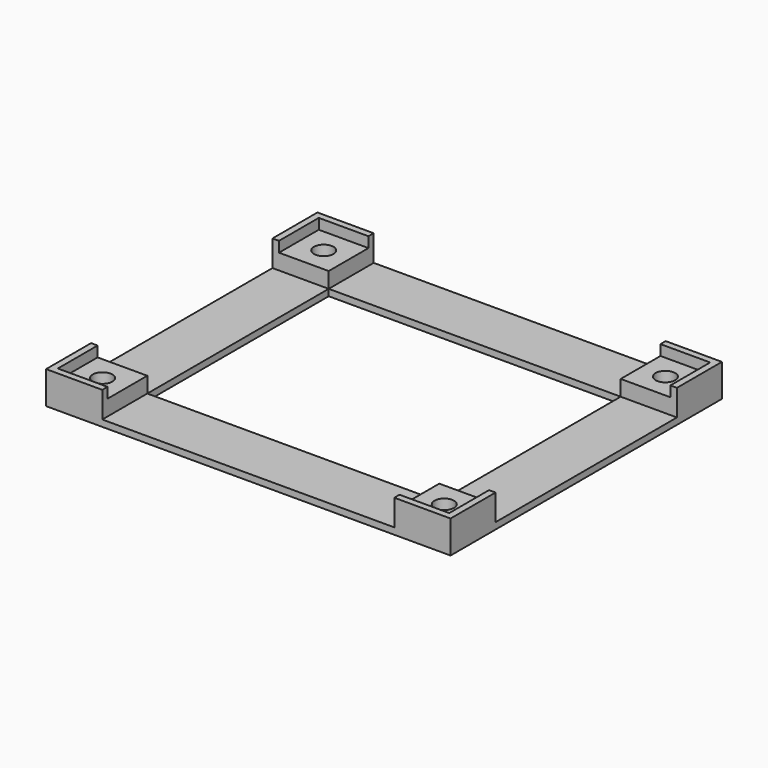
from build123d import *

# Parameters (mm, degrees)
PCB_W           = 60
PCB_H           = 50
PCB_DEPTH       = 1.6
HOLE_0_R        = 1.5
HOLE_0_DEPTH    = 5
HOLE_1_R        = 1.5
HOLE_1_DEPTH    = 5
HOLE_2_R        = 1.5
HOLE_2_DEPTH    = 5
HOLE_3_R        = 1.5
HOLE_3_DEPTH    = 5
FLOOR_CUT_W     = 44.76
FLOOR_CUT_H     = 34.76
FLOOR_CUT_DEPTH = 1
BLOCK_0_W       = 8.62
BLOCK_0_H       = 8.62
BLOCK_0_DEPTH   = 5
BLOCK_1_W       = 8.62
BLOCK_1_H       = 8.62
BLOCK_1_DEPTH   = 5
BLOCK_2_W       = 8.62
BLOCK_2_H       = 8.62
BLOCK_2_DEPTH   = 5
BLOCK_3_W       = 8.62
BLOCK_3_H       = 8.62
BLOCK_3_DEPTH   = 5
FLOOR_W         = 62
FLOOR_H         = 52
FLOOR_DEPTH     = 1


with BuildPart() as pcb:
    # pcb → pcb (new body)
    with BuildSketch(Plane(origin=(1, 1, 3.4), x_dir=(1, 0, 0), z_dir=(0, 0, 1))):
        with Locations((30, 25)):
            Rectangle(PCB_W, PCB_H)
    extrude(amount=PCB_DEPTH)


with BuildPart() as hole_0_body:
    # hole_0 → hole_0 (new body)
    with BuildSketch(Plane(origin=(4.81, 4.81, 0), x_dir=(1, 0, 0), z_dir=(0, 0, 1))):
        Circle(HOLE_0_R)
    extrude(amount=HOLE_0_DEPTH)


with BuildPart() as hole_1_body:
    # hole_1 → hole_1 (new body)
    with BuildSketch(Plane(origin=(4.81, 47.19, 0), x_dir=(1, 0, 0), z_dir=(0, 0, 1))):
        Circle(HOLE_1_R)
    extrude(amount=HOLE_1_DEPTH)


with BuildPart() as hole_2_body:
    # hole_2 → hole_2 (new body)
    with BuildSketch(Plane(origin=(57.19, 4.81, 0), x_dir=(1, 0, 0), z_dir=(0, 0, 1))):
        Circle(HOLE_2_R)
    extrude(amount=HOLE_2_DEPTH)


with BuildPart() as hole_3_body:
    # hole_3 → hole_3 (new body)
    with BuildSketch(Plane(origin=(57.19, 47.19, 0), x_dir=(1, 0, 0), z_dir=(0, 0, 1))):
        Circle(HOLE_3_R)
    extrude(amount=HOLE_3_DEPTH)


with BuildPart() as tool:
    # floor_cut → floor_cut (new body)
    with BuildSketch(Plane(origin=(8.62, 8.62, 0), x_dir=(1, 0, 0), z_dir=(0, 0, 1))):
        with Locations((22.38, 17.38)):
            Rectangle(FLOOR_CUT_W, FLOOR_CUT_H)
    extrude(amount=FLOOR_CUT_DEPTH)

    # tool: union pcb, hole_0 body, hole_1 body, hole_2 body, hole_3 body
    add(pcb.part)
    add(hole_0_body.part)
    add(hole_1_body.part)
    add(hole_2_body.part)
    add(hole_3_body.part)


with BuildPart() as block_0_body:
    # block_0 → block_0 (new body)
    with BuildSketch(Plane.XY):
        with Locations((4.31, 4.31)):
            Rectangle(BLOCK_0_W, BLOCK_0_H)
    extrude(amount=BLOCK_0_DEPTH)


with BuildPart() as block_1_body:
    # block_1 → block_1 (new body)
    with BuildSketch(Plane(origin=(0, 43.38, 0), x_dir=(1, 0, 0), z_dir=(0, 0, 1))):
        with Locations((4.31, 4.31)):
            Rectangle(BLOCK_1_W, BLOCK_1_H)
    extrude(amount=BLOCK_1_DEPTH)


with BuildPart() as block_2_body:
    # block_2 → block_2 (new body)
    with BuildSketch(Plane(origin=(53.38, 0, 0), x_dir=(1, 0, 0), z_dir=(0, 0, 1))):
        with Locations((4.31, 4.31)):
            Rectangle(BLOCK_2_W, BLOCK_2_H)
    extrude(amount=BLOCK_2_DEPTH)


with BuildPart() as block_3_body:
    # block_3 → block_3 (new body)
    with BuildSketch(Plane(origin=(53.38, 43.38, 0), x_dir=(1, 0, 0), z_dir=(0, 0, 1))):
        with Locations((4.31, 4.31)):
            Rectangle(BLOCK_3_W, BLOCK_3_H)
    extrude(amount=BLOCK_3_DEPTH)


with BuildPart() as final:
    # floor → floor (new body)
    with BuildSketch(Plane.XY):
        with Locations((31, 26)):
            Rectangle(FLOOR_W, FLOOR_H)
    extrude(amount=FLOOR_DEPTH)

    # base: union block_0 body, block_1 body, block_2 body, block_3 body
    add(block_0_body.part)
    add(block_1_body.part)
    add(block_2_body.part)
    add(block_3_body.part)

    # final: cut tool
    add(tool.part, mode=Mode.SUBTRACT)


solid = final.part
